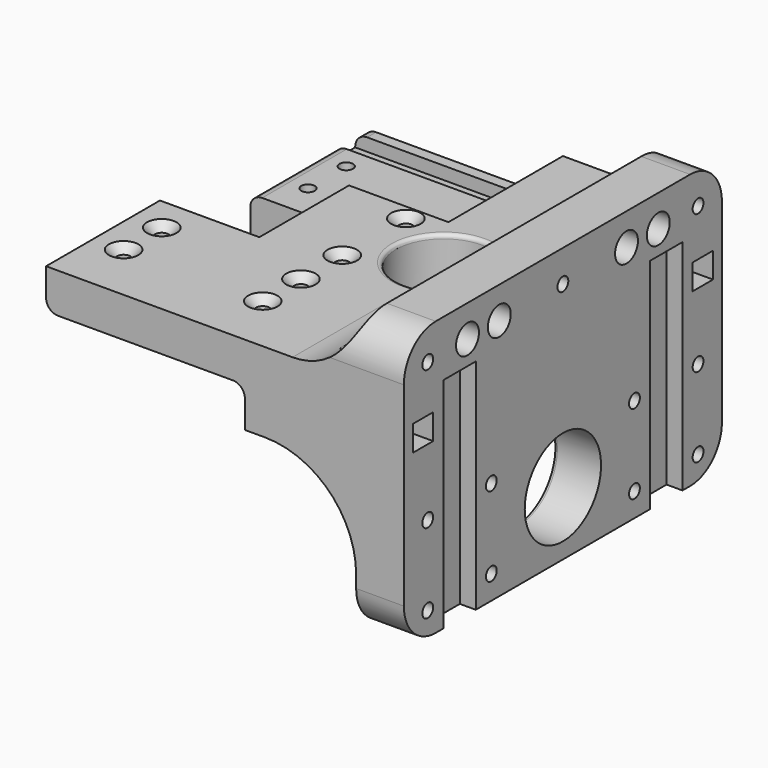
from build123d import *

# Parameters (mm, degrees)
SKETCH001_W     = 100
SKETCH001_H     = 69
SKETCH001_R     = 12
SKETCH001_R_2   = 1.7
PAD_DEPTH       = 90
SKETCH004_W     = 10.2
SKETCH004_H     = 100
POCKET_DEPTH    = 4
SKETCH_W        = 6.4
SKETCH_H        = 6.4
POCKET001_DEPTH = 90.001
POCKET002_DEPTH = 100.001
SKETCH007_R     = 3.6
POCKET004_DEPTH = 85
SKETCH008_W     = 30
SKETCH008_H     = 86.227234
POCKET005_DEPTH = 36.001
SKETCH011_W     = 36
SKETCH011_H     = 10
POCKET008_DEPTH = 50
SKETCH010_W     = 36
SKETCH010_H     = 10
POCKET009_DEPTH = 50
SKETCH013_R     = 1.7
SKETCH013_W     = 28.4
SKETCH013_H     = 26.384235
POCKET011_DEPTH = 33.001
SKETCH014_R     = 1.7
POCKET012_DEPTH = 33.001
SKETCH015_R     = 2.6
POCKET013_DEPTH = 6
POCKET014_DEPTH = 90.001
SKETCH017_R     = 12
POCKET015_DEPTH = 33.001
FILLET_R        = 3
FILLET001_R     = 3
FILLET002_R     = 3
FILLET003_R     = 3
FILLET004_R     = 3
FILLET005_R     = 3
FILLET006_R     = 3
FILLET007_R     = 3
CHAMFER_SIZE    = 2
CHAMFER001_SIZE = 2
CHAMFER002_SIZE = 2
CHAMFER003_SIZE = 2
CHAMFER004_SIZE = 2
CHAMFER005_SIZE = 2
FILLET008_R     = 10
FILLET009_R     = 10
FILLET010_R     = 10
CHAMFER006_SIZE = 1.8
CHAMFER007_SIZE = 1.8
CHAMFER008_SIZE = 1.8
CHAMFER009_SIZE = 1.8
CHAMFER010_SIZE = 1.8
CHAMFER011_SIZE = 1.8
CHAMFER012_SIZE = 1.8
CHAMFER013_SIZE = 1.8
CHAMFER014_SIZE = 1.8
CHAMFER015_SIZE = 1.8
CHAMFER016_SIZE = 1.8
FILLET011_R     = 4
FILLET012_R     = 1
FILLET013_R     = 1
FILLET014_R     = 1
SKETCH018_R     = 3.6
POCKET016_DEPTH = 90.001


with BuildPart() as part:
    # Sketch001 → Pad (new body)
    with BuildSketch(Plane(origin=(-86, 0, 0), x_dir=(0, -1, 0), z_dir=(-1, 0, 0))):
        with Locations((0, -5.5)):
            Rectangle(SKETCH001_W, SKETCH001_H)
        with Locations((0, -24)):
            Circle(SKETCH001_R, mode=Mode.SUBTRACT)
        with Locations((42.5, -14)):
            Circle(SKETCH001_R_2, mode=Mode.SUBTRACT)
        with Locations((42.5, -34)):
            Circle(SKETCH001_R_2, mode=Mode.SUBTRACT)
        with Locations((22.5, -14)):
            Circle(SKETCH001_R_2, mode=Mode.SUBTRACT)
        with Locations((22.5, -34)):
            Circle(SKETCH001_R_2, mode=Mode.SUBTRACT)
        with Locations((-22.5, -14)):
            Circle(SKETCH001_R_2, mode=Mode.SUBTRACT)
        with Locations((-42.5, -14)):
            Circle(SKETCH001_R_2, mode=Mode.SUBTRACT)
        with Locations((-42.5, -34)):
            Circle(SKETCH001_R_2, mode=Mode.SUBTRACT)
        with Locations((-22.5, -34)):
            Circle(SKETCH001_R_2, mode=Mode.SUBTRACT)
        with Locations((-42.5, 21)):
            Circle(SKETCH001_R_2, mode=Mode.SUBTRACT)
        with Locations((42.5, 21)):
            Circle(SKETCH001_R_2, mode=Mode.SUBTRACT)
        with Locations((0, 21)):
            Circle(SKETCH001_R_2, mode=Mode.SUBTRACT)
    extrude(amount=PAD_DEPTH)

    # Sketch004 → Pocket (cut)
    with BuildSketch(Plane(origin=(-86, 0, 0), x_dir=(0, -1, 0), z_dir=(1, 0, 0))):
        with Locations((-32.5, 35)):
            Rectangle(SKETCH004_W, SKETCH004_H)
        with Locations((32.5, 35)):
            Rectangle(SKETCH004_W, SKETCH004_H)
    extrude(amount=-POCKET_DEPTH, mode=Mode.SUBTRACT)

    # Sketch → Pocket001 (cut, through all)
    with BuildSketch(Plane(origin=(-86, 0, 0), x_dir=(0, -1, 0), z_dir=(1, 0, 0))):
        with Locations((-44, -6)):
            Rectangle(SKETCH_W, SKETCH_H)
        with Locations((44, -6)):
            Rectangle(SKETCH_W, SKETCH_H)
    extrude(amount=-POCKET001_DEPTH, mode=Mode.SUBTRACT)

    # Sketch005 → Pocket002 (cut, through all)
    with BuildSketch(Plane(origin=(-86, 50, 0), x_dir=(0, 0, -1), z_dir=(0, 1, 0))):
        with BuildLine():
            Line((54, 90), (54, 12))
            Line((54, 12), (27, 12))
            ThreePointArc((4, 35), (10.736544, 18.736544), (27, 12))
            Line((4, 35), (4, 90))
            Line((4, 90), (54, 90))
        make_face()
        with BuildLine():
            Line((-16, 90), (-16, 28))
            ThreePointArc((-32, 12), (-20.686292, 16.686292), (-16, 28))
            Line((-32, 12), (-66, 12))
            Line((-66, 12), (-66, 90))
            Line((-66, 90), (-16, 90))
        make_face()
    extrude(amount=-POCKET002_DEPTH, mode=Mode.SUBTRACT)

    # Sketch007 → Pocket004 (cut)
    with BuildSketch(Plane(origin=(-176, 0, 0), x_dir=(0, -1, 0), z_dir=(-1, 0, 0))):
        with Locations((42.5, -14)):
            Circle(SKETCH007_R)
        with Locations((42.5, -34)):
            Circle(SKETCH007_R)
        with Locations((22.5, -14)):
            Circle(SKETCH007_R)
        with Locations((22.5, -34)):
            Circle(SKETCH007_R)
        with Locations((-22.5, -14)):
            Circle(SKETCH007_R)
        with Locations((-42.5, -14)):
            Circle(SKETCH007_R)
        with Locations((-42.5, -34)):
            Circle(SKETCH007_R)
        with Locations((-22.5, -34)):
            Circle(SKETCH007_R)
        with Locations((-42.5, 21)):
            Circle(SKETCH007_R)
        with Locations((42.5, 21)):
            Circle(SKETCH007_R)
        with Locations((0, 21)):
            Circle(SKETCH007_R)
    extrude(amount=-POCKET004_DEPTH, mode=Mode.SUBTRACT)

    # Sketch008 → Pocket005 (cut, through all)
    with BuildSketch(Plane(origin=(-86, 0, -4), x_dir=(0, -1, 0), z_dir=(0, 0, -1))):
        with Locations((0, 55.113617)):
            Rectangle(SKETCH008_W, SKETCH008_H)
    extrude(amount=POCKET005_DEPTH, mode=Mode.SUBTRACT)

    # Sketch011 → Pocket008 (cut)
    with BuildSketch(Plane(origin=(-176, 0, 0), x_dir=(0, -1, 0), z_dir=(-1, 0, 0))):
        with Locations((32, 1)):
            Rectangle(SKETCH011_W, SKETCH011_H)
    extrude(amount=-POCKET008_DEPTH, mode=Mode.SUBTRACT)

    # Sketch010 → Pocket009 (cut)
    with BuildSketch(Plane(origin=(-176, 0, 0), x_dir=(0, -1, 0), z_dir=(-1, 0, 0))):
        with Locations((-32, 11)):
            Rectangle(SKETCH010_W, SKETCH010_H)
    extrude(amount=-POCKET009_DEPTH, mode=Mode.SUBTRACT)

    # Sketch013 → Pocket011 (cut, through all)
    with BuildSketch(Plane(origin=(-86, 0, -4), x_dir=(0, -1, 0), z_dir=(0, 0, -1))):
        with Locations((-10, 47.5)):
            Circle(SKETCH013_R)
        with Locations((10, 47.5)):
            Circle(SKETCH013_R)
        with Locations((0, 78.192117)):
            Rectangle(SKETCH013_W, SKETCH013_H)
    extrude(amount=-POCKET011_DEPTH, mode=Mode.SUBTRACT)

    # Sketch014 → Pocket012 (cut, through all)
    with BuildSketch(Plane(origin=(-86, 0, -4), x_dir=(0, -1, 0), z_dir=(0, 0, -1))):
        with Locations((-35, 82.5)):
            Circle(SKETCH014_R)
        with Locations((-23, 82.5)):
            Circle(SKETCH014_R)
        with Locations((-35, 47.5)):
            Circle(SKETCH014_R)
        with Locations((-23, 47.5)):
            Circle(SKETCH014_R)
        with Locations((23, 47.5)):
            Circle(SKETCH014_R)
        with Locations((35, 47.5)):
            Circle(SKETCH014_R)
        with Locations((35, 82.5)):
            Circle(SKETCH014_R)
        with Locations((23, 82.5)):
            Circle(SKETCH014_R)
    extrude(amount=-POCKET012_DEPTH, mode=Mode.SUBTRACT)

    # Sketch015 → Pocket013 (cut)
    with BuildSketch(Plane(origin=(-86, 0, -4), x_dir=(0, -1, 0), z_dir=(0, 0, -1))):
        with Locations((-35, 82.5)):
            Circle(SKETCH015_R)
        with Locations((-23, 82.5)):
            Circle(SKETCH015_R)
        with Locations((-23, 47.5)):
            Circle(SKETCH015_R)
        with Locations((-35, 47.5)):
            Circle(SKETCH015_R)
    extrude(amount=-POCKET013_DEPTH, mode=Mode.SUBTRACT)

    # Sketch016 → Pocket014 (cut, through all)
    with BuildSketch(Plane(origin=(-86, 0, 0), x_dir=(0, -1, 0), z_dir=(1, 0, 0))):
        with BuildLine():
            ThreePointArc((50, 30), (47.071068, 37.071068), (40, 40))
            Line((40, 40), (40, 50))
            Line((40, 50), (60, 50))
            Line((60, 50), (60, 30))
            Line((60, 30), (50, 30))
        make_face()
    extrude(amount=-POCKET014_DEPTH, mode=Mode.SUBTRACT)

    # Sketch017 → Pocket015 (cut, through all)
    with BuildSketch(Plane(origin=(-86, 0, -4), x_dir=(0, -1, 0), z_dir=(0, 0, -1))):
        with Locations((0, 30)):
            Circle(SKETCH017_R)
    extrude(amount=-POCKET015_DEPTH, mode=Mode.SUBTRACT)

    # Fillet
    fillet_edges = [part.edges().sort_by_distance(p)[0] for p in [
        (-126, -27.4, 6),
    ]]
    fillet(fillet_edges, radius=FILLET_R)

    # Fillet001
    fillet001_edges = [part.edges().sort_by_distance(p)[0] for p in [
        (-126, -48.6, 6),
    ]]
    fillet(fillet001_edges, radius=FILLET001_R)

    # Fillet002
    fillet002_edges = [part.edges().sort_by_distance(p)[0] for p in [
        (-176, -27.5, 6),
    ]]
    fillet(fillet002_edges, radius=FILLET002_R)

    # Fillet003
    fillet003_edges = [part.edges().sort_by_distance(p)[0] for p in [
        (-176, -48.6, 6),
    ]]
    fillet(fillet003_edges, radius=FILLET003_R)

    # Fillet004
    fillet004_edges = [part.edges().sort_by_distance(p)[0] for p in [
        (-126, 27.4, 6),
    ]]
    fillet(fillet004_edges, radius=FILLET004_R)

    # Fillet005
    fillet005_edges = [part.edges().sort_by_distance(p)[0] for p in [
        (-176, 27.5, 6),
    ]]
    fillet(fillet005_edges, radius=FILLET005_R)

    # Fillet006
    fillet006_edges = [part.edges().sort_by_distance(p)[0] for p in [
        (-176, 48.6, 6),
    ]]
    fillet(fillet006_edges, radius=FILLET006_R)

    # Fillet007
    fillet007_edges = [part.edges().sort_by_distance(p)[0] for p in [
        (-126, 48.6, 6),
    ]]
    fillet(fillet007_edges, radius=FILLET007_R)

    # Chamfer
    chamfer_edges = [part.edges().sort_by_distance(p)[0] for p in [
        (-168.5, -21.3, 16),
    ]]
    chamfer(chamfer_edges, length=CHAMFER_SIZE)

    # Chamfer001
    chamfer001_edges = [part.edges().sort_by_distance(p)[0] for p in [
        (-168.5, -33.3, 16),
    ]]
    chamfer(chamfer001_edges, length=CHAMFER001_SIZE)

    # Chamfer002
    chamfer002_edges = [part.edges().sort_by_distance(p)[0] for p in [
        (-133.5, -8.3, 16),
    ]]
    chamfer(chamfer002_edges, length=CHAMFER002_SIZE)

    # Chamfer003
    chamfer003_edges = [part.edges().sort_by_distance(p)[0] for p in [
        (-133.5, -21.3, 16),
    ]]
    chamfer(chamfer003_edges, length=CHAMFER003_SIZE)

    # Chamfer004
    chamfer004_edges = [part.edges().sort_by_distance(p)[0] for p in [
        (-133.5, 11.7, 16),
    ]]
    chamfer(chamfer004_edges, length=CHAMFER004_SIZE)

    # Chamfer005
    chamfer005_edges = [part.edges().sort_by_distance(p)[0] for p in [
        (-133.5, -33.3, 16),
    ]]
    chamfer(chamfer005_edges, length=CHAMFER005_SIZE)

    # Fillet008
    fillet008_edges = [part.edges().sort_by_distance(p)[0] for p in [
        (-92, 50, -40),
    ]]
    fillet(fillet008_edges, radius=FILLET008_R)

    # Fillet009
    fillet009_edges = [part.edges().sort_by_distance(p)[0] for p in [
        (-92.141883, 50, 29),
    ]]
    fillet(fillet009_edges, radius=FILLET009_R)

    # Fillet010
    fillet010_edges = [part.edges().sort_by_distance(p)[0] for p in [
        (-92.141883, -50, 29),
    ]]
    fillet(fillet010_edges, radius=FILLET010_R)

    # Chamfer006
    chamfer006_edges = [part.edges().sort_by_distance(p)[0] for p in [
        (-91, 44.2, -14),
    ]]
    chamfer(chamfer006_edges, length=CHAMFER006_SIZE)

    # Chamfer007
    chamfer007_edges = [part.edges().sort_by_distance(p)[0] for p in [
        (-91, 24.2, -14),
    ]]
    chamfer(chamfer007_edges, length=CHAMFER007_SIZE)

    # Chamfer008
    chamfer008_edges = [part.edges().sort_by_distance(p)[0] for p in [
        (-91, -20.8, -14),
    ]]
    chamfer(chamfer008_edges, length=CHAMFER008_SIZE)

    # Chamfer009
    chamfer009_edges = [part.edges().sort_by_distance(p)[0] for p in [
        (-91, -40.8, -14),
    ]]
    chamfer(chamfer009_edges, length=CHAMFER009_SIZE)

    # Chamfer010
    chamfer010_edges = [part.edges().sort_by_distance(p)[0] for p in [
        (-91, 44.2, -34),
    ]]
    chamfer(chamfer010_edges, length=CHAMFER010_SIZE)

    # Chamfer011
    chamfer011_edges = [part.edges().sort_by_distance(p)[0] for p in [
        (-91, 24.2, -34),
    ]]
    chamfer(chamfer011_edges, length=CHAMFER011_SIZE)

    # Chamfer012
    chamfer012_edges = [part.edges().sort_by_distance(p)[0] for p in [
        (-91, -20.8, -34),
    ]]
    chamfer(chamfer012_edges, length=CHAMFER012_SIZE)

    # Chamfer013
    chamfer013_edges = [part.edges().sort_by_distance(p)[0] for p in [
        (-91, -40.8, -34),
    ]]
    chamfer(chamfer013_edges, length=CHAMFER013_SIZE)

    # Chamfer014
    chamfer014_edges = [part.edges().sort_by_distance(p)[0] for p in [
        (-91, -40.8, 21),
    ]]
    chamfer(chamfer014_edges, length=CHAMFER014_SIZE)

    # Chamfer015
    chamfer015_edges = [part.edges().sort_by_distance(p)[0] for p in [
        (-91, 1.7, 21),
    ]]
    chamfer(chamfer015_edges, length=CHAMFER015_SIZE)

    # Chamfer016
    chamfer016_edges = [part.edges().sort_by_distance(p)[0] for p in [
        (-91, 44.2, 21),
    ]]
    chamfer(chamfer016_edges, length=CHAMFER016_SIZE)

    # Fillet011
    fillet011_edges = [part.edges().sort_by_distance(p)[0] for p in [
        (-98, 0, -4),
    ]]
    fillet(fillet011_edges, radius=FILLET011_R)

    # Fillet012
    fillet012_edges = [part.edges().sort_by_distance(p)[0] for p in [
        (-104.275996, 2.558853, -4),
    ]]
    fillet(fillet012_edges, radius=FILLET012_R)

    # Fillet013
    fillet013_edges = [part.edges().sort_by_distance(p)[0] for p in [
        (-98, 1.512052, -12.095644),
    ]]
    fillet(fillet013_edges, radius=FILLET013_R)

    # Fillet014
    fillet014_edges = [part.edges().sort_by_distance(p)[0] for p in [
        (-127.957966, 1.003515, 16),
    ]]
    fillet(fillet014_edges, radius=FILLET014_R)

    # Sketch018 → Pocket016 (cut, through all)
    with BuildSketch(Plane(origin=(-86, 0, 0), x_dir=(0, -1, 0), z_dir=(1, 0, 0))):
        with Locations((-30, -21)):
            Circle(SKETCH018_R)
        with Locations((-20, -21)):
            Circle(SKETCH018_R)
        with Locations((20, -21)):
            Circle(SKETCH018_R)
        with Locations((30, -21)):
            Circle(SKETCH018_R)
    extrude(amount=-POCKET016_DEPTH, mode=Mode.SUBTRACT)


solid = part.part
